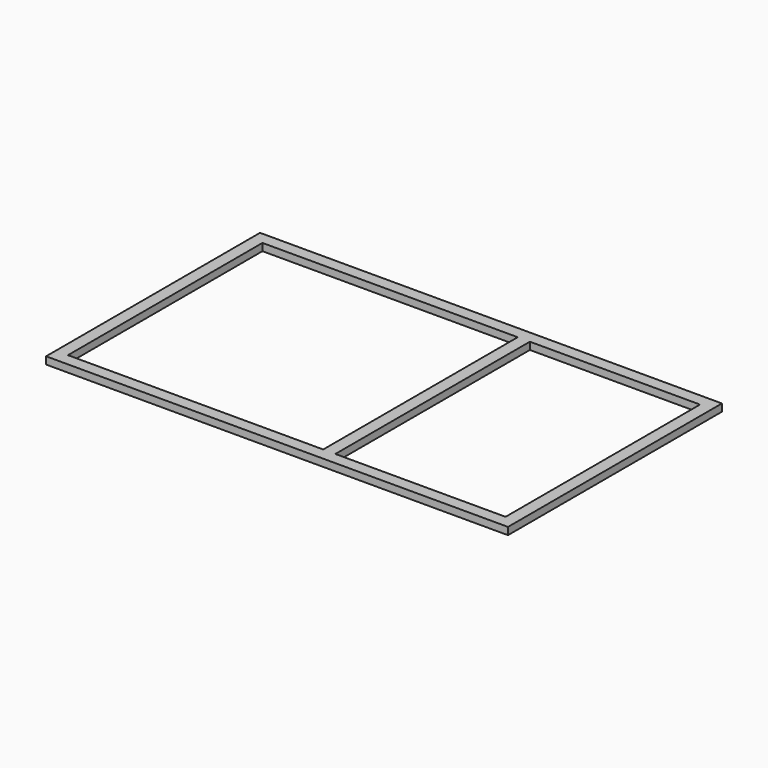
from build123d import *

# Parameters (mm, degrees)
F0_W     = 50
F0_H     = 1000
F1_DEPTH = 30


with BuildPart() as f1:
    # F0 (on Top) → F1 (new body)
    with BuildSketch(Plane.XY):
        with Locations((-836.436596, -3.805679)):
            Rectangle(F0_W, F0_H)
        with Locations((1013.563404, -3.805679)):
            Rectangle(F0_W, F0_H)
        with Locations((263.563404, -3.805679)):
            Rectangle(F0_W, F0_H)
        Polygon((-811.436596, -503.805679), (-861.436596, -503.805679), (-861.436596, -553.805679), (1038.563404, -553.805679), (1038.563404, -503.805679), (988.563404, -503.805679), (288.563404, -503.805679), (238.563404, -503.805679), align=None)
        Polygon((1038.563404, 546.194321), (-861.436596, 546.194321), (-861.436596, 496.194321), (-811.436596, 496.194321), (238.563404, 496.194321), (288.563404, 496.194321), (988.563404, 496.194321), (1038.563404, 496.194321), align=None)
    extrude(amount=F1_DEPTH)


solid = f1.part
